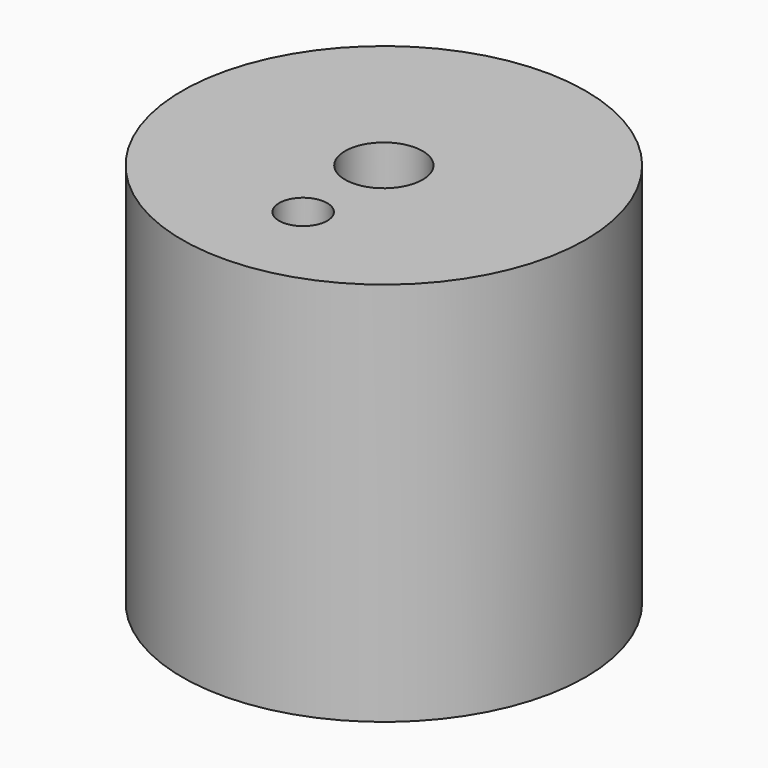
from build123d import *

# Parameters (mm, degrees)
F4_R      = 1.55
F5_DEPTH  = 4
F7_R      = 1.6
F8_DEPTH  = 20.8
F10_R     = 2
F11_DEPTH = 3


with BuildPart() as f1:
    # F0 (on Front) → F1 (revolve)
    with BuildSketch(Plane.XZ):
        with BuildLine():
            Line((10, 3), (10, 0.190525))
            ThreePointArc((10, 0.190525), (11.5, 0), (13, 0.190525))
            Line((13, 0.190525), (13, 25))
            Line((13, 25), (2.5, 25))
            Line((2.5, 25), (2.5, 9))
            Line((2.5, 9), (4.25, 9))
            Line((4.25, 9), (4.25, 3))
            Line((4.25, 3), (10, 3))
        make_face()
    revolve(axis=Axis((0, 0, 12.5), (0, 0, 1)))

    # F4 (on offset) → F5 (cut)
    with BuildSketch(Plane.XY.offset(25)):
        with Locations((0, -6.5)):
            Circle(F4_R)
    extrude(amount=-F5_DEPTH, mode=Mode.SUBTRACT)

    # F7 (on offset) → F8 (cut)
    with BuildSketch(Plane.XZ.offset(-13)):
        with Locations((-6, 13)):
            Circle(F7_R)
    extrude(amount=F8_DEPTH, mode=Mode.SUBTRACT)

    # F10 (on offset) → F11 (cut)
    with BuildSketch(Plane.XZ.offset(-10)):
        with Locations((-6, 13)):
            Circle(F10_R)
    extrude(amount=-F11_DEPTH, mode=Mode.SUBTRACT)


solid = f1.part
